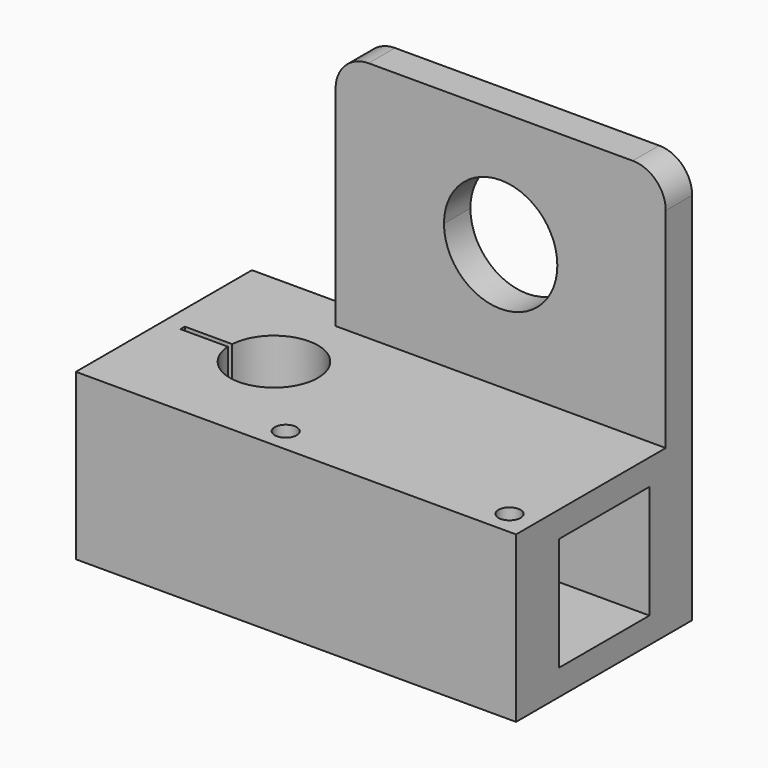
from build123d import *

# Parameters (mm, degrees)
F0_R     = 1
F1_DEPTH = 15
F3_DEPTH = 23
F4_W     = 30
F4_H     = 15
F5_DEPTH = 3
F6_R     = 3


with BuildPart() as f1:
    # F0 (on Top) → F1 (new body)
    with BuildSketch(Plane.XY):
        Polygon((-10, 10), (-10, -10), (10, -10), (10, 7.8278025612), (10, 10), align=None)
        with Locations((7.3302448727, -7.8278025612)):
            Circle(F0_R, mode=Mode.SUBTRACT)
        with BuildLine():
            ThreePointArc((-3.9921798557, 0.25), (0.1250611397, 3.9980444859), (4, 0))
            ThreePointArc((4, 0), (0.1250611397, -3.9980444859), (-3.9921798557, -0.25))
            Line((-3.9921798557, -0.25), (-8.3, -0.25))
            Line((-8.3, -0.25), (-8.3, 0))
            Line((-8.3, 0), (-8.3, 0.25))
            Line((-8.3, 0.25), (-3.9921798557, 0.25))
        make_face(mode=Mode.SUBTRACT)
        with Locations((7.3302448727, 7.8278025612)):
            Circle(F0_R, mode=Mode.SUBTRACT)
        Polygon((10, 7.8278025612), (10, -10), (30, -10), (30, 10), (10, 10), align=None)
        with Locations((27.6660211384, -7.8278025612)):
            Circle(F0_R, mode=Mode.SUBTRACT)
        with BuildLine():
            ThreePointArc((28.6660211384, 7.8278025612), (27.6660211384, 6.8278025612), (26.6660211384, 7.8278025612))
            ThreePointArc((26.6660211384, 7.8278025612), (27.6660211384, 8.8278025612), (28.6660211384, 7.8278025612))
        make_face(mode=Mode.SUBTRACT)
        with Locations((7.3302448727, 7.8278025612)):
            Circle(F0_R)
        with BuildLine():
            ThreePointArc((28.6660211384, 7.8278025612), (27.6660211384, 8.8278025612), (26.6660211384, 7.8278025612))
            ThreePointArc((26.6660211384, 7.8278025612), (27.6660211384, 6.8278025612), (28.6660211384, 7.8278025612))
        make_face()
    extrude(amount=F1_DEPTH)

    # F2 (on face) → F3 (cut)
    with BuildSketch(Plane.YZ.offset(30)):
        Polygon((-5.15, 12.65), (-5.15, 7.5), (-5.15, 2.35), (5.15, 2.35), (5.15, 12.65), align=None)
    extrude(amount=-F3_DEPTH, mode=Mode.SUBTRACT)

    # F4 (on face) → F5 (join)
    with BuildSketch(Plane(origin=(0, 10, 0), x_dir=(-1, 0, 0), z_dir=(0, 1, 0))):
        with BuildLine():
            Line((-30, 37), (-30, 26.4))
            Line((-30, 26.4), (-20.15, 26.4))
            ThreePointArc((-20.15, 26.4), (-18.6415999231, 30.0415999231), (-15, 31.55))
            Line((-15, 31.55), (-15, 37))
            Line((-15, 37), (-30, 37))
        make_face()
        with Locations((-15, 7.5)):
            Rectangle(F4_W, F4_H)
        with BuildLine():
            Line((-30, 26.4), (-30, 15))
            Line((-30, 15), (0, 15))
            Line((0, 15), (0, 37))
            Line((0, 37), (-15, 37))
            Line((-15, 37), (-15, 31.55))
            ThreePointArc((-15, 31.55), (-11.3584000769, 30.0415999231), (-9.85, 26.4))
            ThreePointArc((-9.85, 26.4), (-15, 21.25), (-20.15, 26.4))
            Line((-20.15, 26.4), (-30, 26.4))
        make_face()
    extrude(amount=-F5_DEPTH)

    # F6
    f6_edges = [f1.edges().sort_by_distance(p)[0] for p in [
        (30, 8.5, 37),
        (0, 8.5, 37),
    ]]
    fillet(f6_edges, radius=F6_R)


solid = f1.part
